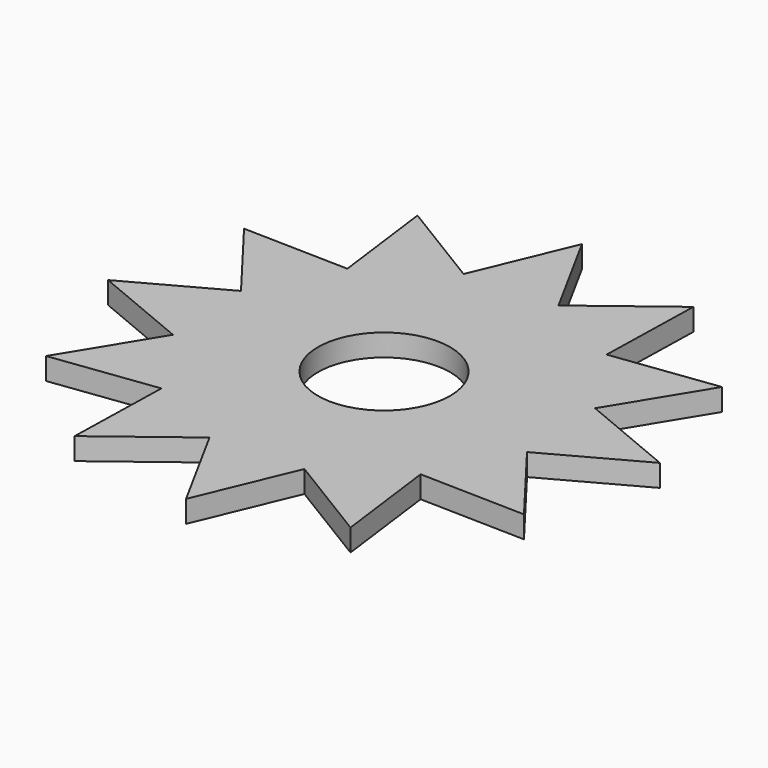
from build123d import *

# Parameters (mm, degrees)
F0_R     = 9.525
F1_DEPTH = 3.175


with BuildPart() as f1:
    # F0 (on Top) → F1 (new body)
    with BuildSketch(Plane.XY):
        Polygon((-2.000947, 38.180346), (-7.849032, 24.156836), (-20.823044, 32.064676), (-18.875879, 16.995917), (-34.065623, 17.357302), (-24.844949, 5.280957), (-38.180346, -2.000947), (-24.156836, -7.849032), (-32.064676, -20.823044), (-16.995917, -18.875879), (-17.357302, -34.065623), (-5.280957, -24.844949), (2.000947, -38.180346), (7.849032, -24.156836), (20.823044, -32.064676), (18.875879, -16.995917), (34.065623, -17.357302), (24.844949, -5.280957), (38.180346, 2.000947), (24.156836, 7.849032), (32.064676, 20.823044), (16.995917, 18.875879), (17.357302, 34.065623), (5.280957, 24.844949), align=None)
        Circle(F0_R, mode=Mode.SUBTRACT)
    extrude(amount=F1_DEPTH)


solid = f1.part
